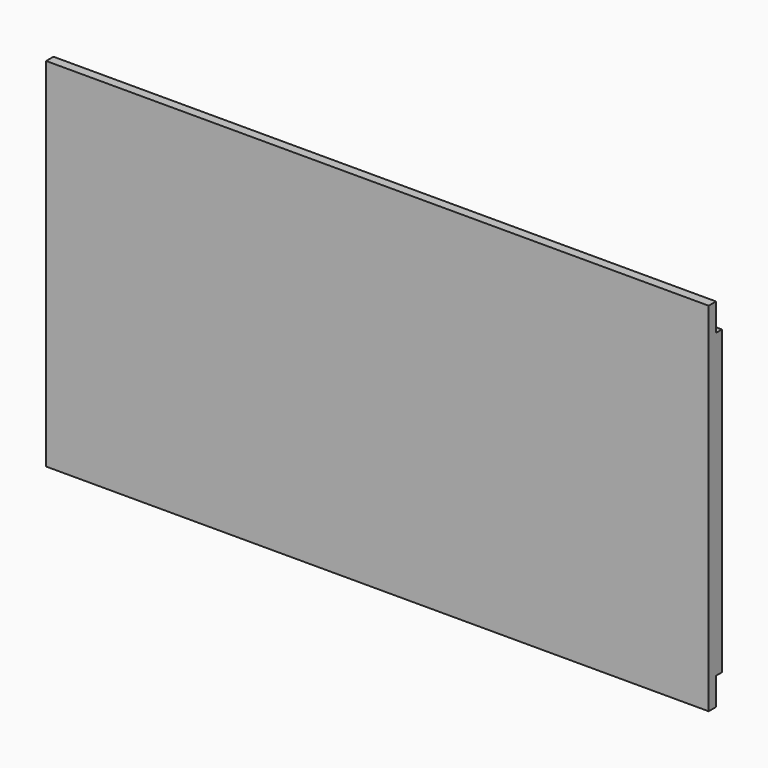
from build123d import *

# Parameters (mm, degrees)
F0_W     = 180
F0_H     = 97
F1_DEPTH = 2.5
F2_W     = 175
F2_H     = 2.5
F2_W_2   = 2.5
F2_H_2   = 82
F2_H_3   = 5
F3_DEPTH = 2


with BuildPart() as f1:
    # F0 (on Front) → F1 (new body)
    with BuildSketch(Plane.XZ):
        with Locations((4.046954, 3.393026)):
            Rectangle(F0_W, F0_H)
    extrude(amount=F1_DEPTH)

    # F2 (on face) → F3 (join)
    with BuildSketch(Plane(origin=(0, 0, 0), x_dir=(-1, 0, 0), z_dir=(0, 1, 0))):
        with Locations((-4.046954, -41.356974)):
            Rectangle(F2_W, F2_H)
        with Locations((-4.046954, 48.143026)):
            Rectangle(F2_W, F2_H)
        with Locations((84.703046, 3.393026)):
            Rectangle(F2_W_2, F2_H_2)
        with Locations((-92.796954, 3.393026)):
            Rectangle(F2_W_2, F2_H_2)
        with Locations((79.703046, 3.393026)):
            Rectangle(F2_W_2, F2_H_3)
        with Locations((-87.796954, 3.393026)):
            Rectangle(F2_W_2, F2_H_3)
    extrude(amount=F3_DEPTH)


solid = f1.part
